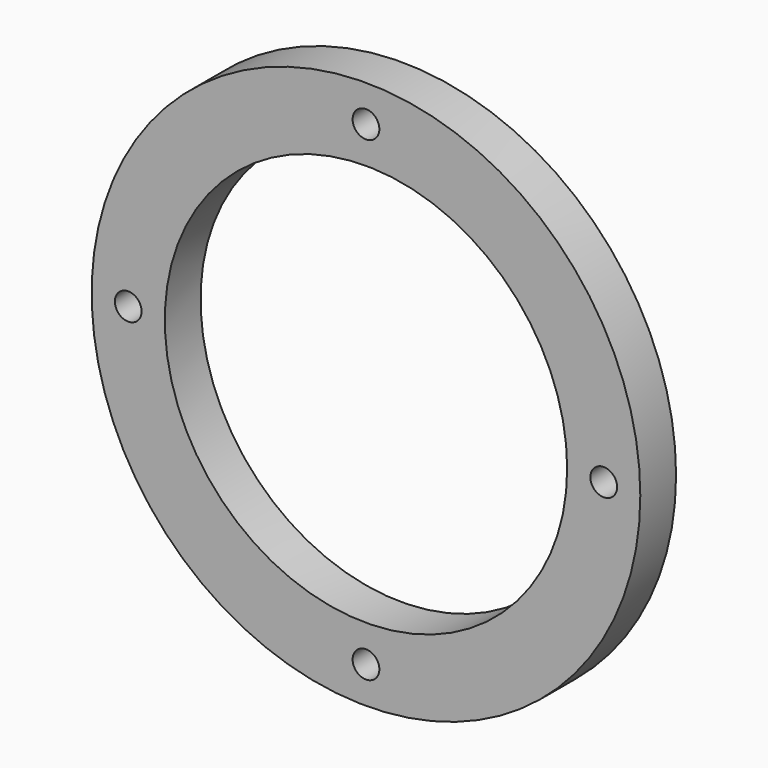
from build123d import *

# Parameters (mm, degrees)
F0_R     = 38.9636
F0_R_2   = 28.575
F1_DEPTH = 6.35
F3_D     = 3.7973


with BuildPart() as f1:
    # F0 (on Front) → F1 (new body)
    with BuildSketch(Plane.XZ):
        Circle(F0_R)
        Circle(F0_R_2, mode=Mode.SUBTRACT)
    extrude(amount=F1_DEPTH)

    # F3 (through all)
    with Locations(Plane(origin=(0, 0, 0), x_dir=(-1, 0, 0), z_dir=(0, 1, 0))):
        with Locations((-33.7693, 0), (0, 33.7693), (33.7693, 0), (0, -33.7693)):
            Hole(F3_D / 2)


solid = f1.part
